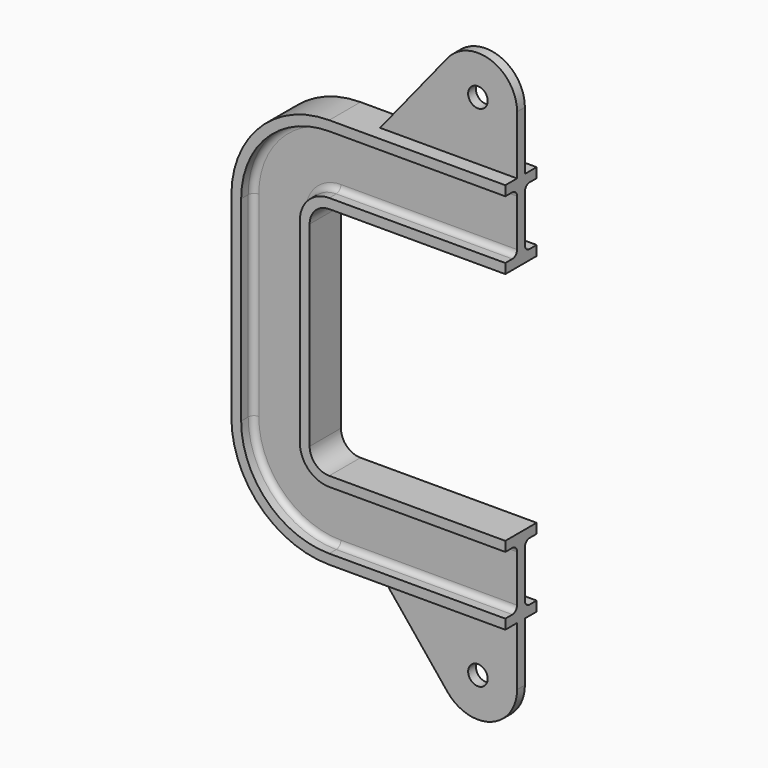
from build123d import *

# Parameters (mm, degrees)
F4_R     = 5
F5_DEPTH = 2.5


with BuildPart() as f2:
    # F2: sweep along a path in F0
    with BuildLine(Plane.XZ) as f2_path:
        Line((0, 60), (-90, 60))
        ThreePointArc((-90, 60), (-97.0710678119, 57.0710678119), (-100, 50))
        Line((-100, 50), (-100, 0))
    # F1 (on Right) → F2 (sweep)
    with BuildSketch(Plane.YZ):
        with BuildLine():
            Line((10, 95), (10, 100))
            Line((10, 100), (-10, 100))
            Line((-10, 100), (-10, 95))
            Line((-10, 95), (-5.5, 95))
            ThreePointArc((-5.5, 95), (-3.3786796564, 94.1213203436), (-2.5, 92))
            Line((-2.5, 92), (-2.5, 68))
            ThreePointArc((-2.5, 68), (-3.3786796564, 65.8786796564), (-5.5, 65))
            Line((-5.5, 65), (-10, 65))
            Line((-10, 65), (-10, 60))
            Line((-10, 60), (0, 60))
            Line((0, 60), (10, 60))
            Line((10, 60), (10, 65))
            Line((10, 65), (5.5, 65))
            ThreePointArc((5.5, 65), (3.3786796564, 65.8786796564), (2.5, 68))
            Line((2.5, 68), (2.5, 92))
            ThreePointArc((2.5, 92), (3.3786796564, 94.1213203436), (5.5, 95))
            Line((5.5, 95), (10, 95))
        make_face()
    sweep(path=f2_path.line)

    # F3: F2 across plane


with BuildPart() as f2_1:
    add(f2.part)
    add(f2.part.mirror(Plane.XY))

    # F4 (on Front) → F5 (join, symmetric)
    with BuildSketch(Plane.XZ):
        with BuildLine():
            Line((0, 100), (0, 130))
            ThreePointArc((0, 130), (-13.3277028936, 148.8541892248), (-35.5480451324, 142.5800752207))
            Line((-35.5480451324, 142.5800752207), (-70, 100))
            Line((-70, 100), (0, 100))
        make_face()
        with Locations((-20, 130)):
            Circle(F4_R, mode=Mode.SUBTRACT)
        with BuildLine():
            Line((0, -100), (-70, -100))
            Line((-70, -100), (-35.5480451324, -142.5800752207))
            ThreePointArc((-35.5480451324, -142.5800752207), (-13.3277028936, -148.8541892248), (0, -130))
            Line((0, -130), (0, -100))
        make_face()
        with Locations((-20, -130)):
            Circle(F4_R, mode=Mode.SUBTRACT)
    extrude(amount=F5_DEPTH, both=True)


solid = f2_1.part
